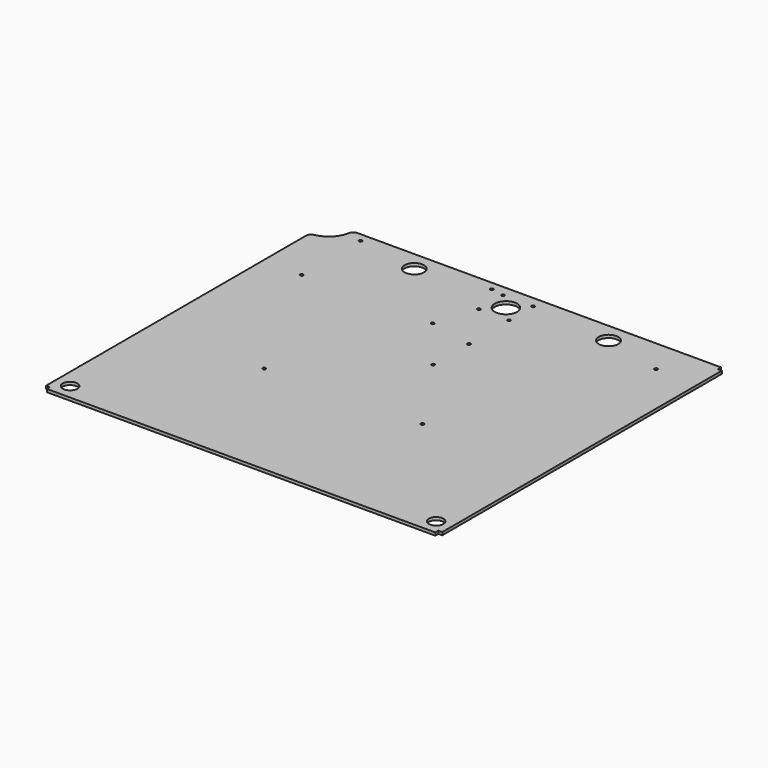
from build123d import *

# Parameters (mm, degrees)
F0_R     = 7.5
F0_R_2   = 1.6
F0_R_3   = 10
F0_R_4   = 11.5
F1_DEPTH = 3


with BuildPart() as f1:
    # F0 (on Top) → F1 (new body)
    with BuildSketch(Plane.XY):
        with BuildLine():
            Line((90.722883, 364.83956), (-284.089221, 364.83956))
            ThreePointArc((-284.089221, 364.83956), (-287.307803, 363.665882), (-289.015352, 360.695854))
            ThreePointArc((-289.015352, 360.695854), (-295.88796, 347.463485), (-309.127945, 340.605561))
            ThreePointArc((-309.127945, 340.605561), (-312.101652, 338.899187), (-313.277117, 335.678484))
            Line((-313.277117, 335.678484), (-313.277117, 0.83956))
            Line((-313.277117, 0.83956), (-309.277117, 0.83956))
            Line((-309.277117, 0.83956), (-309.277117, -3.16044))
            Line((-309.277117, -3.16044), (90.722883, -3.16044))
            Line((90.722883, -3.16044), (90.722883, 0.83956))
            Line((90.722883, 0.83956), (94.722883, 0.83956))
            Line((94.722883, 0.83956), (94.722883, 360.83956))
            Line((94.722883, 360.83956), (90.722883, 360.83956))
            Line((90.722883, 360.83956), (90.722883, 364.83956))
        make_face()
        with Locations((-297.777117, 12.33956)):
            Circle(F0_R, mode=Mode.SUBTRACT)
        with Locations((-194.936931, 133.696496)):
            Circle(F0_R_2, mode=Mode.SUBTRACT)
        with Locations((79.222883, 12.33956)):
            Circle(F0_R, mode=Mode.SUBTRACT)
        with Locations((-35.277117, 137.83956)):
            Circle(F0_R_2, mode=Mode.SUBTRACT)
        with Locations((-273.277117, 279.83956)):
            Circle(F0_R_2, mode=Mode.SUBTRACT)
        with Locations((-273.277117, 355.83956)):
            Circle(F0_R_2, mode=Mode.SUBTRACT)
        with Locations((-138.277117, 279.83956)):
            Circle(F0_R_2, mode=Mode.SUBTRACT)
        with Locations((-209.277117, 344.83956)):
            Circle(F0_R_3, mode=Mode.SUBTRACT)
        with Locations((-124.777117, 322.33956)):
            Circle(F0_R_2, mode=Mode.SUBTRACT)
        with Locations((-138.277117, 355.83956)):
            Circle(F0_R_2, mode=Mode.SUBTRACT)
        with Locations((-124.777117, 353.33956)):
            Circle(F0_R_2, mode=Mode.SUBTRACT)
        with Locations((-93.068697, 223.877582)):
            Circle(F0_R_2, mode=Mode.SUBTRACT)
        with Locations((-93.068697, 269.877582)):
            Circle(F0_R_2, mode=Mode.SUBTRACT)
        with Locations((-93.777117, 322.33956)):
            Circle(F0_R_2, mode=Mode.SUBTRACT)
        with Locations((-109.277117, 337.83956)):
            Circle(F0_R_4, mode=Mode.SUBTRACT)
        with Locations((-93.777117, 353.33956)):
            Circle(F0_R_2, mode=Mode.SUBTRACT)
        with Locations((-9.277117, 344.83956)):
            Circle(F0_R_3, mode=Mode.SUBTRACT)
        with Locations((51.722883, 329.83956)):
            Circle(F0_R_2, mode=Mode.SUBTRACT)
    extrude(amount=F1_DEPTH)


solid = f1.part
